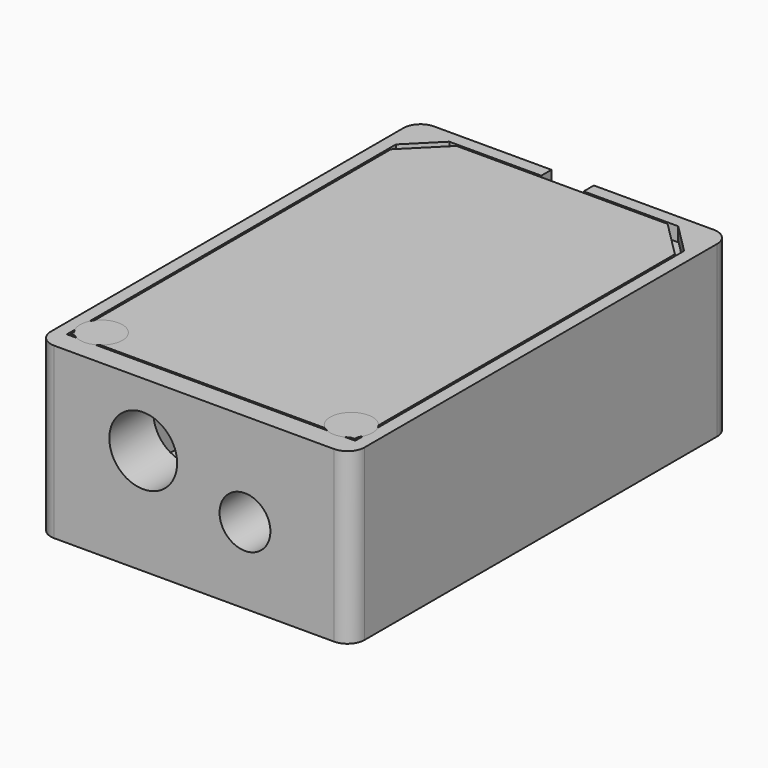
from build123d import *

# Parameters (mm, degrees)
SKETCH_W        = 37
SKETCH_H        = 56
PAD_DEPTH       = 20
SKETCH001_W     = 34
SKETCH001_H     = 48
POCKET_DEPTH    = 18.5
PAD001_DEPTH    = 15.5
SKETCH003_R     = 3
SKETCH003_R_2   = 4
POCKET001_DEPTH = 6.5
SKETCH004_W     = 34
SKETCH004_H     = 4
POCKET002_DEPTH = 3
PAD002_DEPTH    = 1.5
SKETCH006_R     = 1.5
POCKET003_DEPTH = 7
FILLET_R        = 2
SKETCH010_W     = 5
SKETCH010_H     = 10
POCKET006_DEPTH = 5
SKETCH007_W     = 33.5
SKETCH007_H     = 51.5
PAD003_DEPTH    = 3
POCKET004_DEPTH = 1.5
SKETCH009_R     = 1.5
POCKET005_DEPTH = 126.021324
SKETCH011_W     = 11.5
SKETCH011_H     = 15
POCKET007_DEPTH = 1.5


with BuildPart() as body:
    # Sketch → Pad (new body)
    with BuildSketch(Plane.XY):
        Rectangle(SKETCH_W, SKETCH_H)
    extrude(amount=PAD_DEPTH)

    # Sketch001 (on Face6 of Pad) → Pocket (cut)
    with BuildSketch(Plane.XY.offset(20)):
        with Locations((0, 2.5)):
            Rectangle(SKETCH001_W, SKETCH001_H)
    extrude(amount=-POCKET_DEPTH, mode=Mode.SUBTRACT)

    # Sketch002 (on Face11 of Pocket) → Pad001 (join)
    with BuildSketch(Plane.XY.offset(1.5)):
        Polygon((-17, 23), (-17, 26.5), (-13.5, 26.5), align=None)
        Polygon((-17, -18), (-17, -21.5), (-13.5, -21.5), align=None)
    pad001 = extrude(amount=PAD001_DEPTH)

    # Mirrored: Pad001 across Sketch002 V_Axis
    add(pad001.mirror(Plane(origin=(0, 0, 1.5), x_dir=(0, 0, 1), z_dir=(1, 0, 0))))

    # Sketch003 (on Face6 of Mirrored) → Pocket001 (cut)
    with BuildSketch(Plane.XZ.offset(28)):
        with Locations((6, 9)):
            Circle(SKETCH003_R)
        with Locations((-6, 12.5)):
            Circle(SKETCH003_R_2)
    extrude(amount=-POCKET001_DEPTH, mode=Mode.SUBTRACT)

    # Sketch004 (on Face4 of Pocket001) → Pocket002 (cut)
    with BuildSketch(Plane.XY.offset(20)):
        with Locations((0, -23.5)):
            Rectangle(SKETCH004_W, SKETCH004_H)
    extrude(amount=-POCKET002_DEPTH, mode=Mode.SUBTRACT)

    # Sketch005 (on Face15 of Pocket002) → Pad002 (join)
    with BuildSketch(Plane.XY.offset(18.5)):
        Polygon((-17, 23), (-17, 26.5), (-13.5, 26.5), align=None)
    pad002 = extrude(amount=PAD002_DEPTH)

    # Mirrored001: Pad002 across Sketch005 V_Axis
    add(pad002.mirror(Plane(origin=(0, 0, 18.5), x_dir=(0, 0, 1), z_dir=(1, 0, 0))))

    # Sketch006 (on Face28 of Mirrored001) → Pocket003 (cut)
    with BuildSketch(Plane.XY.offset(17)):
        with Locations((-15, -23.5)):
            Circle(SKETCH006_R)
    pocket003 = extrude(amount=-POCKET003_DEPTH, mode=Mode.SUBTRACT)

    # Mirrored002: Pocket003 across Sketch006 V_Axis
    add(pocket003.mirror(Plane(origin=(0, 0, 17), x_dir=(0, 0, 1), z_dir=(1, 0, 0))), mode=Mode.SUBTRACT)

    # Fillet
    fillet_edges = [body.edges().sort_by_distance(p)[0] for p in [
        (18.5, -28, 10),
        (-18.5, -28, 10),
        (-18.5, 28, 10),
        (18.5, 28, 10),
    ]]
    fillet(fillet_edges, radius=FILLET_R)

    # Sketch010 (on Face1 of Fillet) → Pocket006 (cut)
    with BuildSketch(Plane(origin=(0, 28, 0), x_dir=(-1, 0, 0), z_dir=(0, 1, 0))):
        with Locations((0.147406, 15)):
            Rectangle(SKETCH010_W, SKETCH010_H)
    extrude(amount=-POCKET006_DEPTH, mode=Mode.SUBTRACT)


with BuildPart() as body001:
    # Sketch007 → Pad003 (new body)
    with BuildSketch(Plane.XY):
        Rectangle(SKETCH007_W, SKETCH007_H)
    extrude(amount=PAD003_DEPTH)

    # Sketch008 (on Face6 of Pad003) → Pocket004 (cut)
    with BuildSketch(Plane.XY.offset(3)):
        Polygon((-16.75, 25.75), (-16.75, 21.45), (-12.45, 25.75), align=None)
        Polygon((12.45, 25.75), (16.75, 25.75), (16.75, 21.45), align=None)
    extrude(amount=-POCKET004_DEPTH, mode=Mode.SUBTRACT)

    # Sketch009 (on Face6 of Pocket004) → Pocket005 (cut, through all)
    with BuildSketch(Plane.XY.offset(3)):
        with Locations((-14.75, -23.75)):
            Circle(SKETCH009_R)
    pocket005 = extrude(amount=-POCKET005_DEPTH, mode=Mode.SUBTRACT)

    # Mirrored003: Pocket005 across Sketch009 V_Axis
    add(pocket005.mirror(Plane(origin=(0, 0, 3), x_dir=(0, 0, 1), z_dir=(1, 0, 0))), mode=Mode.SUBTRACT)

    # Sketch011 (on Face2 of Mirrored003) → Pocket007 (cut)
    with BuildSketch(Plane(origin=(0, 0, 0), x_dir=(1, 0, 0), z_dir=(0, 0, -1))):
        with Locations((-5, 18.25)):
            Rectangle(SKETCH011_W, SKETCH011_H)
    extrude(amount=-POCKET007_DEPTH, mode=Mode.SUBTRACT)


with BuildPart() as body001_1:
    # Body001 placement: moved
    add(body001.part.moved(Location((0, 0.5, 17))))


with BuildPart() as cone:
    # Cone → Cone (revolve)
    with BuildSketch(Plane(origin=(-14.75, -23.25, 18), x_dir=(1, 0, 0), z_dir=(0, -1, 0))):
        Polygon((0, 0), (1.5, 0), (2.5, 2), (0, 2), align=None)
    revolve(axis=Axis((-14.75, -23.25, 18), (0, 0, 1)))


with BuildPart() as cone001:
    # Cone001 → Cone001 (revolve)
    with BuildSketch(Plane(origin=(14.75, -23.25, 18), x_dir=(1, 0, 0), z_dir=(0, -1, 0))):
        Polygon((0, 0), (1.5, 0), (2.5, 2), (0, 2), align=None)
    revolve(axis=Axis((14.75, -23.25, 18), (0, 0, 1)))


solid = Compound([body.part, body001_1.part, cone.part, cone001.part])
